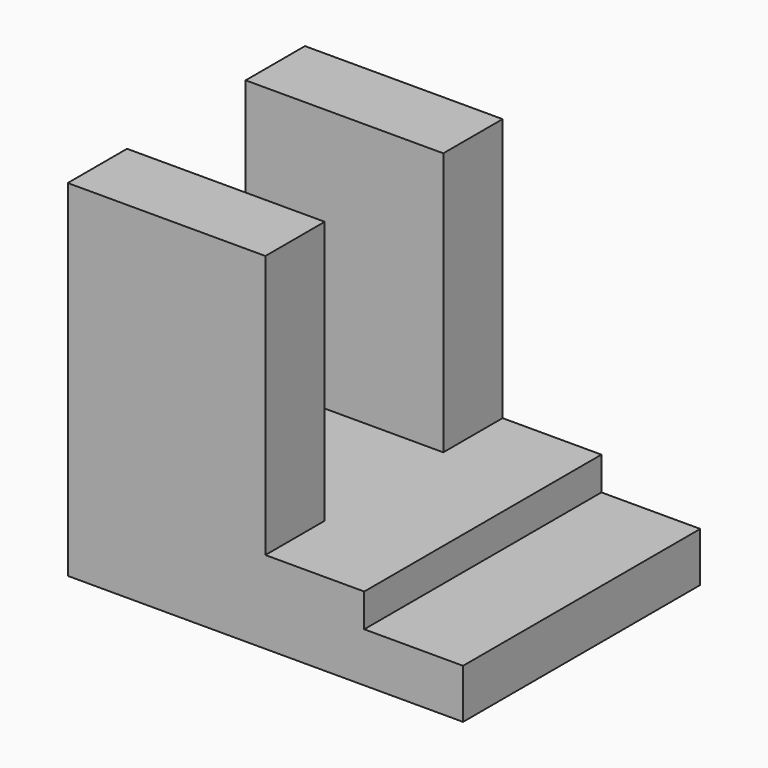
from build123d import *

# Parameters (mm, degrees)
F1_DEPTH = 60
F2_W     = 30
F2_H     = 53.273138
F3_DEPTH = 40.001


with BuildPart() as f1:
    # F0 (on Front) → F1 (new body)
    with BuildSketch(Plane.XZ):
        Polygon((1.254432, 23.70847), (-38.745568, 23.70847), (-38.745568, -46.29153), (41.254432, -46.29153), (41.254432, -36.29153), (21.254432, -36.29153), (21.254432, -29.564668), (1.254432, -29.564668), align=None)
    extrude(amount=F1_DEPTH)

    # F2 (on face) → F3 (cut, through all)
    with BuildSketch(Plane.YZ.offset(1.254432)):
        with Locations((-30, -2.928099)):
            Rectangle(F2_W, F2_H)
    extrude(amount=-F3_DEPTH, mode=Mode.SUBTRACT)


solid = f1.part
